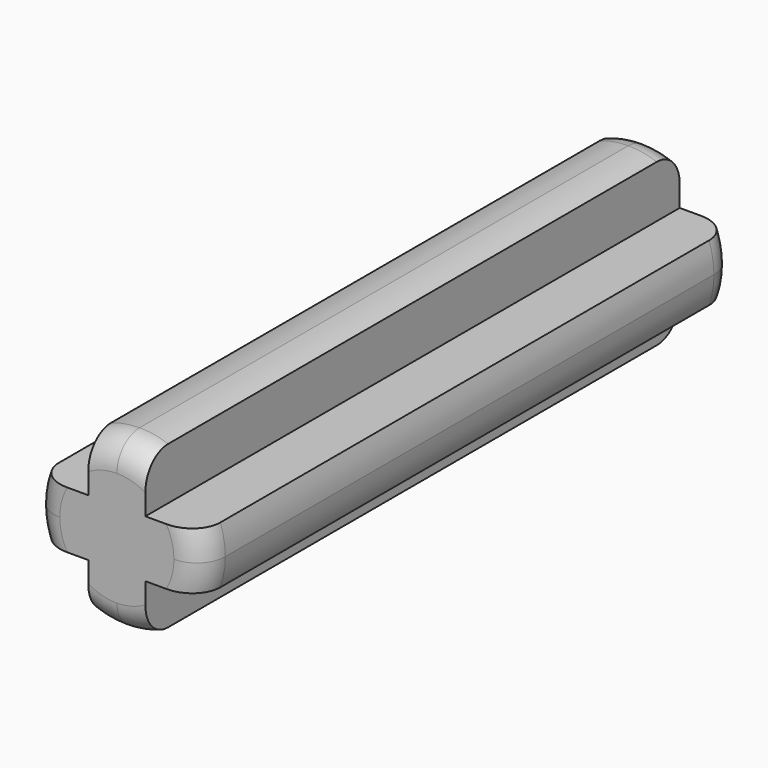
from build123d import *

# Parameters (mm, degrees)
F0_W     = 2
F0_H     = 2
F1_DEPTH = 23.4
F2_R     = 1


with BuildPart() as f1:
    # F0 (on Front) → F1 (new body)
    with BuildSketch(Plane.XZ):
        with BuildLine():
            Line((12.5810803622, 6.8602320091), (12.5810803622, 8.8602320091))
            Line((12.5810803622, 8.8602320091), (10.7526532375, 8.8602320091))
            ThreePointArc((10.7526532375, 8.8602320091), (10.6242846832, 8.3675379453), (10.5810803622, 7.8602320091))
            ThreePointArc((10.5810803622, 7.8602320091), (10.6242846832, 7.3529260729), (10.7526532375, 6.8602320091))
            Line((10.7526532375, 6.8602320091), (12.5810803622, 6.8602320091))
        make_face()
        with Locations((13.5810803622, 7.8602320091)):
            Rectangle(F0_W, F0_H)
        with BuildLine():
            Line((14.5810803622, 8.8602320091), (14.5810803622, 10.6886591338))
            ThreePointArc((14.5810803622, 10.6886591338), (14.0883862984, 10.8170276881), (13.5810803622, 10.8602320091))
            ThreePointArc((13.5810803622, 10.8602320091), (13.073774426, 10.8170276881), (12.5810803622, 10.6886591338))
            Line((12.5810803622, 10.6886591338), (12.5810803622, 8.8602320091))
            Line((12.5810803622, 8.8602320091), (14.5810803622, 8.8602320091))
        make_face()
        with BuildLine():
            ThreePointArc((13.5810803622, 4.8602320091), (14.0883862984, 4.9034363301), (14.5810803622, 5.0318048844))
            Line((14.5810803622, 5.0318048844), (14.5810803622, 6.8602320091))
            Line((14.5810803622, 6.8602320091), (12.5810803622, 6.8602320091))
            Line((12.5810803622, 6.8602320091), (12.5810803622, 5.0318048844))
            ThreePointArc((12.5810803622, 5.0318048844), (13.073774426, 4.9034363301), (13.5810803622, 4.8602320091))
        make_face()
        with BuildLine():
            ThreePointArc((16.4095074869, 6.8602320091), (16.5378760412, 7.3529260729), (16.5810803622, 7.8602320091))
            ThreePointArc((16.5810803622, 7.8602320091), (16.5378760412, 8.3675379453), (16.4095074869, 8.8602320091))
            Line((16.4095074869, 8.8602320091), (14.5810803622, 8.8602320091))
            Line((14.5810803622, 8.8602320091), (14.5810803622, 6.8602320091))
            Line((14.5810803622, 6.8602320091), (16.4095074869, 6.8602320091))
        make_face()
    extrude(amount=F1_DEPTH)

    # F2
    f2_edges = [f1.edges().sort_by_distance(p)[0] for p in [
        (16.58108, 0, 7.860232),
        (13.58108, 0, 10.860232),
        (10.58108, 0, 7.860232),
        (13.58108, 0, 4.860232),
        (13.58108, -23.4, 10.860232),
        (10.58108, -23.4, 7.860232),
        (13.58108, -23.4, 4.860232),
        (16.58108, -23.4, 7.860232),
    ]]
    fillet(f2_edges, radius=F2_R)


solid = f1.part
